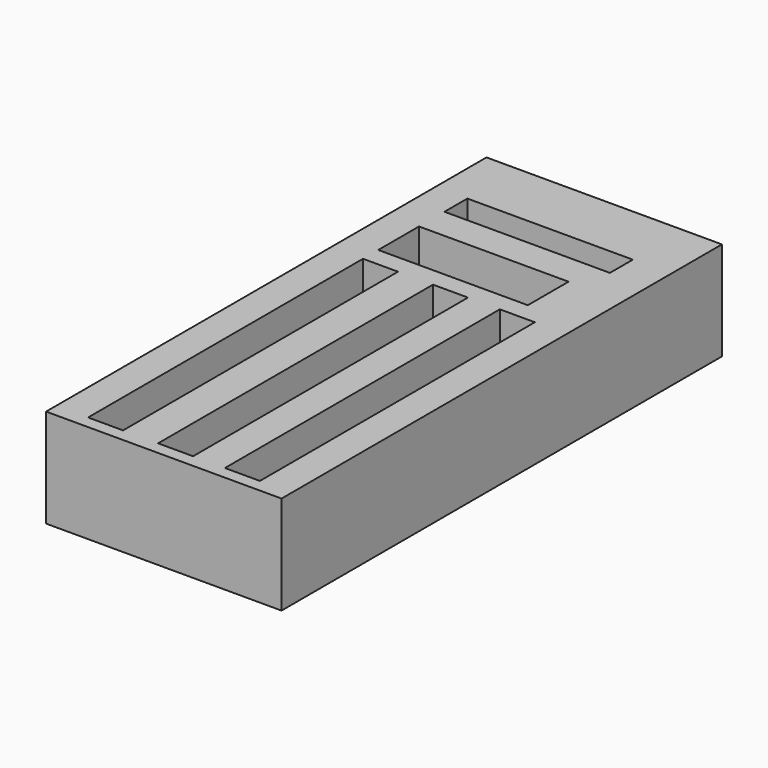
from build123d import *

# Parameters (mm, degrees)
F0_W      = 93.98
F0_H      = 219.71
F1_DEPTH  = 19.685
F1_FACE_W = 93.98
F1_FACE_H = 219.71
F2_DEPTH  = 19.685
F3_W      = 13.97
F3_H      = 137.16
F3_W_2    = 59.69
F3_H_2    = 20.32
F3_W_3    = 66.04
F3_H_3    = 11.43
F4_DEPTH  = 25.4
F5_DEPTH  = 6.35
F6_W      = 13.97
F6_H      = 137.16
F7_DEPTH  = 7.62
F8_DEPTH  = 12.7
F9_W      = 13.97
F9_H      = 25.4
F10_DEPTH = 5.08
F8_FACE_W = 13.97
F8_FACE_H = 25.4
F11_DEPTH = 5.08


with BuildPart() as f1:
    # F0 (on Top) → F1 (new body)
    with BuildSketch(Plane.XY):
        Rectangle(F0_W, F0_H)
    extrude(amount=F1_DEPTH)

    # F1_face (on face) → F2 (join)
    with BuildSketch(Plane(origin=(0, 0, 0), x_dir=(1, 0, 0), z_dir=(0, 0, -1))):
        Rectangle(F1_FACE_W, F1_FACE_H)
    extrude(amount=F2_DEPTH)

    # F3 (on face) → F4 (cut)
    with BuildSketch(Plane.XY.offset(19.685)):
        Polygon((-34.29, -97.155), (-34.29, -109.855), (-20.32, -109.855), (-20.32, 27.305), (-34.29, 27.305), align=None)
        Polygon((20.32, -109.855), (34.29, -109.855), (34.29, -97.155), (34.29, 27.305), (20.32, 27.305), align=None)
        with Locations((0.635, -41.275)):
            Rectangle(F3_W, F3_H)
        with Locations((-4.445, 50.165)):
            Rectangle(F3_W_2, F3_H_2)
        with Locations((-1.27, 78.74)):
            Rectangle(F3_W_3, F3_H_3)
    extrude(amount=-F4_DEPTH, mode=Mode.SUBTRACT)

    # F3 (on face) → F5 (cut)
    with BuildSketch(Plane.XY.offset(19.685)):
        with Locations((-4.445, 50.165)):
            Rectangle(F3_W_2, F3_H_2)
    extrude(amount=-F5_DEPTH, mode=Mode.SUBTRACT)

    # F6 (on face) → F7 (join)
    with BuildSketch(Plane.XY.offset(19.685)):
        with Locations((-27.305, -41.275)):
            Rectangle(F6_W, F6_H)
        with Locations((0.635, -41.275)):
            Rectangle(F6_W, F6_H)
        with Locations((27.305, -41.275)):
            Rectangle(F6_W, F6_H)
    extrude(amount=-F7_DEPTH)

    # F3 (on face) → F8 (cut)
    with BuildSketch(Plane.XY.offset(19.685)):
        Polygon((20.32, -109.855), (34.29, -109.855), (34.29, -97.155), (34.29, 27.305), (20.32, 27.305), align=None)
        with Locations((0.635, -41.275)):
            Rectangle(F3_W, F3_H)
        Polygon((-34.29, -97.155), (-34.29, -109.855), (-20.32, -109.855), (-20.32, 27.305), (-34.29, 27.305), align=None)
    extrude(amount=-F8_DEPTH, mode=Mode.SUBTRACT)

    # F9 (on face) → F10 (join)
    with BuildSketch(Plane.XZ.offset(109.855)):
        with Locations((-27.305, 6.985)):
            Rectangle(F9_W, F9_H)
        with Locations((0.635, 6.985)):
            Rectangle(F9_W, F9_H)
        with Locations((27.305, 6.985)):
            Rectangle(F9_W, F9_H)
    extrude(amount=-F10_DEPTH)

    # F8_face (on face) → F11 (cut)
    with BuildSketch(Plane(origin=(-27.305, 27.305, 6.985), x_dir=(1, 0, 0), z_dir=(0, -1, 0))):
        Rectangle(F8_FACE_W, F8_FACE_H)
        with Locations((27.94, 0)):
            Rectangle(F8_FACE_W, F8_FACE_H)
        with Locations((54.61, 0)):
            Rectangle(F8_FACE_W, F8_FACE_H)
    extrude(amount=-F11_DEPTH, mode=Mode.SUBTRACT)


solid = f1.part
